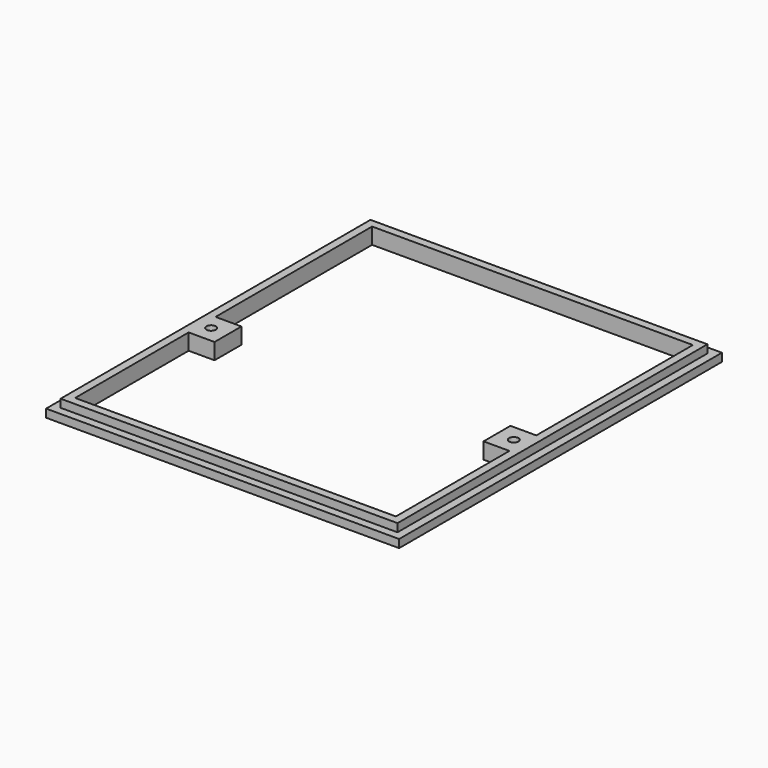
from build123d import *

# Parameters (mm, degrees)
SKETCH_W             = 105
SKETCH_H             = 120
PAD_DEPTH            = 2.4
POCKET001_DEPTH      = 2.401
POCKET001_DEPTH_BACK = -0.001
SKETCH026_W          = 100.2
SKETCH026_H          = 115.2
PAD001_DEPTH         = 2.4
SKETCH024_R          = 1.4
POCKET_DEPTH         = 5


with BuildPart() as part:
    # Sketch → Pad (new body)
    with BuildSketch(Plane.XY):
        with Locations((0, -10)):
            Rectangle(SKETCH_W, SKETCH_H)
    extrude(amount=PAD_DEPTH)

    # Sketch025 → Pocket001 (cut, two sides)
    with BuildSketch(Plane.XY.offset(2.4)) as pocket001_sk:
        Polygon((-47.7, 45.2), (-47.7, -13), (-40, -13), (-40, -23), (-47.7, -23), (-47.7, -65.2), (47.7, -65.2), (47.7, -23), (40, -23), (40, -13), (47.7, -13), (47.7, 45.2), align=None)
    extrude(amount=-POCKET001_DEPTH, mode=Mode.SUBTRACT)
    extrude(pocket001_sk.sketch, amount=-POCKET001_DEPTH_BACK, mode=Mode.SUBTRACT)

    # Sketch026 → Pad001 (new body)
    with BuildSketch(Plane.XY.offset(2.4)):
        with Locations((0, -10)):
            Rectangle(SKETCH026_W, SKETCH026_H)
        Polygon((-47.7, 45.2), (-47.7, -13), (-40, -13), (-40, -23), (-47.7, -23), (-47.7, -65.2), (47.7, -65.2), (47.7, -23), (40, -23), (40, -13), (47.7, -13), (47.7, 45.2), align=None, mode=Mode.SUBTRACT)
    extrude(amount=PAD001_DEPTH)

    # Sketch024 → Pocket (cut)
    with BuildSketch(Plane.XY.offset(4.8)):
        with Locations((-45, -18)):
            Circle(SKETCH024_R)
        with Locations((45, -18)):
            Circle(SKETCH024_R)
    extrude(amount=-POCKET_DEPTH, mode=Mode.SUBTRACT)


solid = part.part
